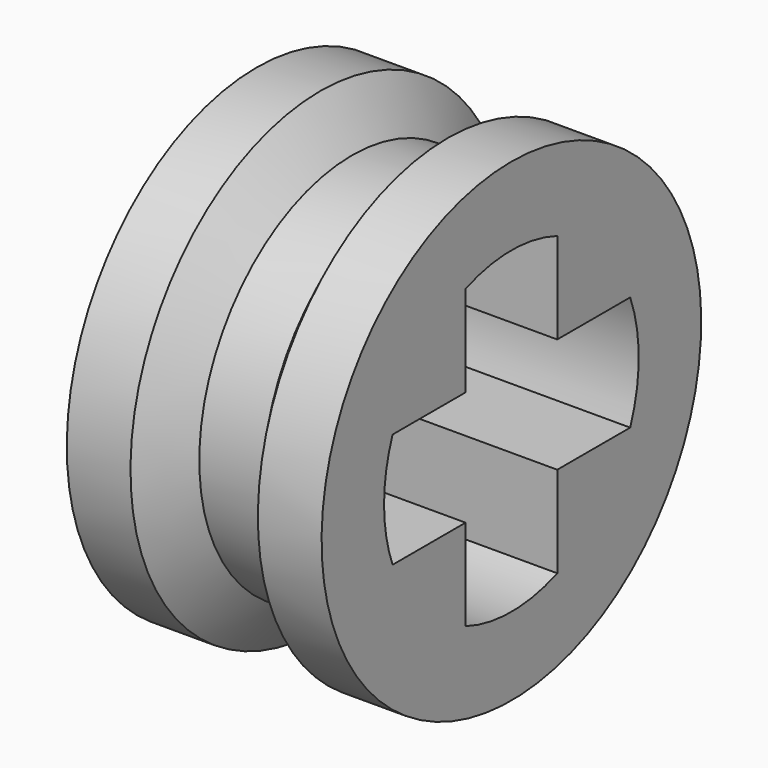
from build123d import *

# Parameters (mm, degrees)
F3_DEPTH = 4.001


with BuildPart() as f1:
    # F0 (on Front) → F1 (revolve)
    with BuildSketch(Plane.XZ):
        Polygon((2, 0), (2, 3.725), (1, 3.725), (0.5, 3), (-0.5, 3), (-1, 3.725), (-2, 3.725), (-2, 0), align=None)
    revolve(axis=Axis((0.147453, 0, 0), (1, 0, 0)))

    # F2 (on face) → F3 (cut, through all)
    with BuildSketch(Plane(origin=(-2, 0, 0), x_dir=(0, -1, 0), z_dir=(-1, 0, 0))):
        with BuildLine():
            ThreePointArc((2.331309, -0.9), (2.45672, -0.457745), (2.499, 0))
            ThreePointArc((2.499, 0), (2.45672, 0.457745), (2.331309, 0.9))
            Line((2.331309, 0.9), (0.9, 0.9))
            Line((0.9, 0.9), (0.9, 2.331309))
            ThreePointArc((0.9, 2.331309), (0, 2.499), (-0.9, 2.331309))
            Line((-0.9, 2.331309), (-0.9, 0.9))
            Line((-0.9, 0.9), (-2.331309, 0.9))
            ThreePointArc((-2.331309, 0.9), (-2.499, 0), (-2.331309, -0.9))
            Line((-2.331309, -0.9), (-0.9, -0.9))
            Line((-0.9, -0.9), (-0.9, -2.331309))
            ThreePointArc((-0.9, -2.331309), (0, -2.499), (0.9, -2.331309))
            Line((0.9, -2.331309), (0.9, -0.9))
            Line((0.9, -0.9), (2.331309, -0.9))
        make_face()
    extrude(amount=-F3_DEPTH, mode=Mode.SUBTRACT)


solid = f1.part
